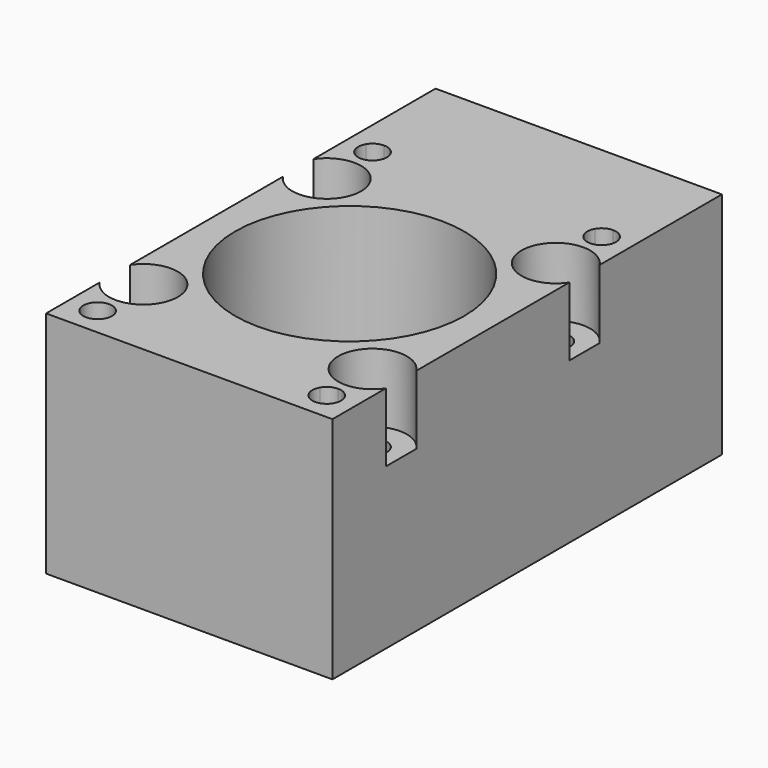
from build123d import *

# Parameters (mm, degrees)
F0_W     = 50
F0_H     = 85
F0_R     = 2.5
F0_R_2   = 20
F1_DEPTH = 40
F3_DEPTH = 5
F4_R     = 6
F5_DEPTH = 12


with BuildPart() as f1:
    # F0 (on Top) → F1 (new body)
    with BuildSketch(Plane.XY):
        with Locations((0, 7.5)):
            Rectangle(F0_W, F0_H)
        Polygon((-21.443375673, -27.5), (-18.556624327, -27.5), (-17.1132486541, -30), (-18.556624327, -32.5), (-21.443375673, -32.5), (-22.8867513459, -30), align=None, mode=Mode.SUBTRACT)
        with Locations((-20, -20)):
            Circle(F0_R, mode=Mode.SUBTRACT)
        Polygon((18.556624327, -32.5), (17.1132486541, -30), (18.556624327, -27.5), (21.443375673, -27.5), (22.8867513459, -30), (21.443375673, -32.5), align=None, mode=Mode.SUBTRACT)
        with Locations((20, -20)):
            Circle(F0_R, mode=Mode.SUBTRACT)
        Circle(F0_R_2, mode=Mode.SUBTRACT)
        with Locations((-20, 20)):
            Circle(F0_R, mode=Mode.SUBTRACT)
        Polygon((-18.556624327, 27.5), (-21.443375673, 27.5), (-22.8867513459, 30), (-21.443375673, 32.5), (-18.556624327, 32.5), (-17.1132486541, 30), align=None, mode=Mode.SUBTRACT)
        with Locations((20, 20)):
            Circle(F0_R, mode=Mode.SUBTRACT)
        Polygon((21.443375673, 27.5), (18.556624327, 27.5), (17.1132486541, 30), (18.556624327, 32.5), (21.443375673, 32.5), (22.8867513459, 30), align=None, mode=Mode.SUBTRACT)
    extrude(amount=F1_DEPTH)

    # F2 (on face) → F3 (join)
    with BuildSketch(Plane.XY.offset(40)):
        with BuildLine():
            ThreePointArc((-20, 32.5), (-18.7499999704, 32.1650634924), (-17.8349364564, 31.2499999408))
            Line((-17.8349364564, 31.2499999408), (-18.556624327, 32.5))
            Line((-18.556624327, 32.5), (-20, 32.5))
        make_face()
        with BuildLine():
            ThreePointArc((-22.1650634864, 31.25000004), (-21.24999998, 32.165063521), (-20, 32.5))
            Line((-20, 32.5), (-21.443375673, 32.5))
            Line((-21.443375673, 32.5), (-22.1650634864, 31.25000004))
        make_face()
        with BuildLine():
            ThreePointArc((-22.1650635259, 28.7500000285), (-22.5, 30.0000000396), (-22.1650634864, 31.25000004))
            Line((-22.1650634864, 31.25000004), (-22.8867513459, 30))
            Line((-22.8867513459, 30), (-22.1650635259, 28.7500000285))
        make_face()
        with BuildLine():
            Line((-21.443375673, 27.5), (-20, 27.5))
            ThreePointArc((-20, 27.5), (-21.2500000143, 27.8349364988), (-22.1650635259, 28.7500000285))
            Line((-22.1650635259, 28.7500000285), (-21.443375673, 27.5))
        make_face()
        with BuildLine():
            Line((-18.556624327, 27.5), (-17.8349364673, 28.7500000402))
            ThreePointArc((-17.8349364673, 28.7500000402), (-18.7499999799, 27.8349365022), (-20, 27.5))
            Line((-20, 27.5), (-18.556624327, 27.5))
        make_face()
        with BuildLine():
            ThreePointArc((-17.8349364564, 31.2499999408), (-17.5851854254, 30.6470475798), (-17.5, 30))
            ThreePointArc((-17.5, 30), (-17.5851854283, 29.3529524097), (-17.8349364673, 28.7500000402))
            Line((-17.8349364673, 28.7500000402), (-17.1132486541, 30))
            Line((-17.1132486541, 30), (-17.8349364564, 31.2499999408))
        make_face()
        with BuildLine():
            ThreePointArc((17.8349364866, 31.2499999932), (18.7499999966, 32.1650635075), (20, 32.5))
            Line((20, 32.5), (18.556624327, 32.5))
            Line((18.556624327, 32.5), (17.8349364866, 31.2499999932))
        make_face()
        with BuildLine():
            ThreePointArc((20, 32.5), (21.2499999895, 32.1650635155), (22.1650634973, 31.2500000211))
            Line((22.1650634973, 31.2500000211), (21.443375673, 32.5))
            Line((21.443375673, 32.5), (20, 32.5))
        make_face()
        with BuildLine():
            ThreePointArc((22.1650634973, 31.2500000211), (22.4148145626, 30.6470476245), (22.5, 30))
            ThreePointArc((22.5, 30), (22.41481457, 29.3529524032), (22.1650635259, 28.7500000285))
            Line((22.1650635259, 28.7500000285), (22.8867513459, 30))
            Line((22.8867513459, 30), (22.1650634973, 31.2500000211))
        make_face()
        with BuildLine():
            Line((21.443375673, 27.5), (22.1650635259, 28.7500000285))
            ThreePointArc((22.1650635259, 28.7500000285), (21.2500000143, 27.8349364988), (20, 27.5))
            Line((20, 27.5), (21.443375673, 27.5))
        make_face()
        with BuildLine():
            Line((18.556624327, 27.5), (20, 27.5))
            ThreePointArc((20, 27.5), (18.7499999704, 27.8349365076), (17.8349364564, 28.7500000592))
            Line((17.8349364564, 28.7500000592), (18.556624327, 27.5))
        make_face()
        with BuildLine():
            ThreePointArc((17.8349364564, 28.7500000592), (17.5, 30.0000000302), (17.8349364866, 31.2499999932))
            Line((17.8349364866, 31.2499999932), (17.1132486541, 30))
            Line((17.1132486541, 30), (17.8349364564, 28.7500000592))
        make_face()
        with BuildLine():
            Line((18.556624327, -32.5), (20, -32.5))
            ThreePointArc((20, -32.5), (18.7499999704, -32.1650634924), (17.8349364564, -31.2499999408))
            Line((17.8349364564, -31.2499999408), (18.556624327, -32.5))
        make_face()
        with BuildLine():
            Line((21.443375673, -32.5), (22.1650634973, -31.2500000211))
            ThreePointArc((22.1650634973, -31.2500000211), (21.2499999895, -32.1650635155), (20, -32.5))
            Line((20, -32.5), (21.443375673, -32.5))
        make_face()
        with BuildLine():
            ThreePointArc((22.1650635285, -28.750000033), (22.4148145707, -29.3529524056), (22.5, -30))
            ThreePointArc((22.5, -30), (22.4148145626, -30.6470476245), (22.1650634973, -31.2500000211))
            Line((22.1650634973, -31.2500000211), (22.8867513459, -30))
            Line((22.8867513459, -30), (22.1650635285, -28.750000033))
        make_face()
        with BuildLine():
            ThreePointArc((20, -27.5), (21.2500000165, -27.8349365001), (22.1650635285, -28.750000033))
            Line((22.1650635285, -28.750000033), (21.443375673, -27.5))
            Line((21.443375673, -27.5), (20, -27.5))
        make_face()
        with BuildLine():
            ThreePointArc((17.8349364802, -28.7500000179), (18.7499999911, -27.8349364957), (20, -27.5))
            Line((20, -27.5), (18.556624327, -27.5))
            Line((18.556624327, -27.5), (17.8349364802, -28.7500000179))
        make_face()
        with BuildLine():
            ThreePointArc((17.8349364564, -31.2499999408), (17.5, -29.9999999762), (17.8349364802, -28.7500000179))
            Line((17.8349364802, -28.7500000179), (17.1132486541, -30))
            Line((17.1132486541, -30), (17.8349364564, -31.2499999408))
        make_face()
        with BuildLine():
            Line((-18.556624327, -32.5), (-17.8349364564, -31.2499999408))
            ThreePointArc((-17.8349364564, -31.2499999408), (-18.7499999704, -32.1650634924), (-20, -32.5))
            Line((-20, -32.5), (-18.556624327, -32.5))
        make_face()
        with BuildLine():
            Line((-21.443375673, -32.5), (-20, -32.5))
            ThreePointArc((-20, -32.5), (-21.2499999493, -32.1650635387), (-22.165063451, -31.2500001013))
            Line((-22.165063451, -31.2500001013), (-21.443375673, -32.5))
        make_face()
        with BuildLine():
            ThreePointArc((-22.165063451, -31.2500001013), (-22.5, -30.000000064), (-22.165063515, -28.7500000096))
            Line((-22.165063515, -28.7500000096), (-22.8867513459, -30))
            Line((-22.8867513459, -30), (-22.165063451, -31.2500001013))
        make_face()
        with BuildLine():
            ThreePointArc((-22.165063515, -28.7500000096), (-21.2500000048, -27.8349364933), (-20, -27.5))
            Line((-20, -27.5), (-21.443375673, -27.5))
            Line((-21.443375673, -27.5), (-22.165063515, -28.7500000096))
        make_face()
        with BuildLine():
            ThreePointArc((-20, -27.5), (-18.7499999704, -27.8349365076), (-17.8349364564, -28.7500000592))
            Line((-17.8349364564, -28.7500000592), (-18.556624327, -27.5))
            Line((-18.556624327, -27.5), (-20, -27.5))
        make_face()
        with BuildLine():
            ThreePointArc((-17.8349364564, -28.7500000592), (-17.5851854254, -29.3529524202), (-17.5, -30))
            ThreePointArc((-17.5, -30), (-17.5851854254, -30.6470475798), (-17.8349364564, -31.2499999408))
            Line((-17.8349364564, -31.2499999408), (-17.1132486541, -30))
            Line((-17.1132486541, -30), (-17.8349364564, -28.7500000592))
        make_face()
    extrude(amount=-F3_DEPTH)

    # F4 (on face) → F5 (cut)
    with BuildSketch(Plane.XY.offset(40)):
        with Locations((-20, -20)):
            Circle(F4_R)
        with Locations((20, -20)):
            Circle(F4_R)
        with Locations((-20, 20)):
            Circle(F4_R)
        with Locations((20, 20)):
            Circle(F4_R)
    extrude(amount=-F5_DEPTH, mode=Mode.SUBTRACT)


solid = f1.part
